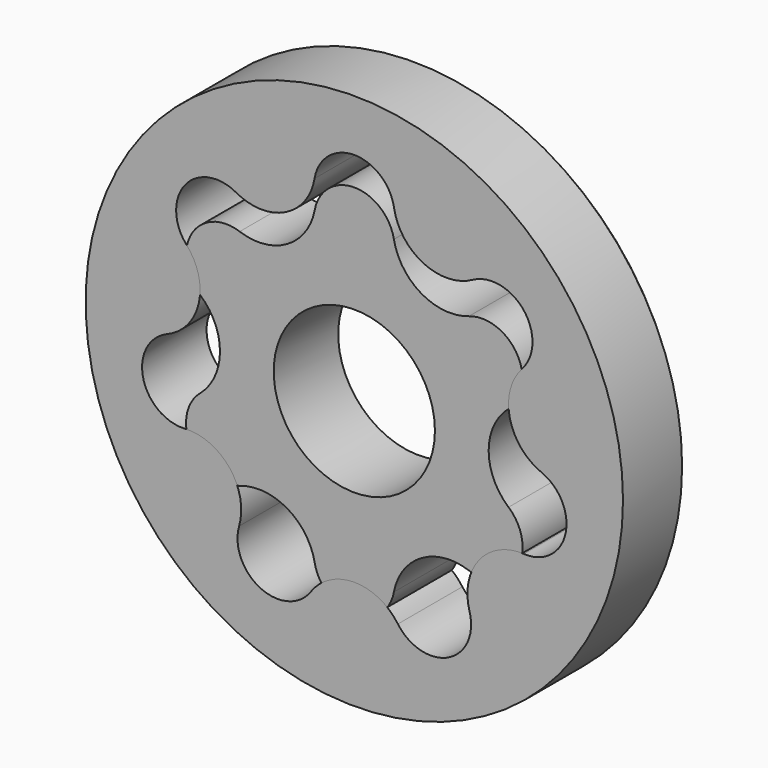
from build123d import *

# Parameters (mm, degrees)
F0_R     = 3
F1_DEPTH = 3
F2_R     = 10
F3_DEPTH = 3
F4_SIZE  = 0.25


with BuildPart() as f1:
    # F0 (on Front) → F1 (new body)
    with BuildSketch(Plane.XZ):
        with BuildLine():
            ThreePointArc((4.266359, 4.165347), (2.5, 4.330127), (1.474117, 5.777449))
            ThreePointArc((1.474117, 5.777449), (0, 7), (-1.474117, 5.777449))
            ThreePointArc((-1.474117, 5.777449), (-2.5, 4.330127), (-4.266359, 4.165347))
            ThreePointArc((-4.266359, 4.165347), (-6.062178, 3.5), (-5.740476, 1.612101))
            ThreePointArc((-5.740476, 1.612101), (-5, 0), (-5.740476, -1.612101))
            ThreePointArc((-5.740476, -1.612101), (-6.062178, -3.5), (-4.266359, -4.165347))
            ThreePointArc((-4.266359, -4.165347), (-2.5, -4.330127), (-1.474117, -5.777449))
            ThreePointArc((-1.474117, -5.777449), (0, -7), (1.474117, -5.777449))
            ThreePointArc((1.474117, -5.777449), (2.5, -4.330127), (4.266359, -4.165347))
            ThreePointArc((4.266359, -4.165347), (6.062178, -3.5), (5.740476, -1.612101))
            ThreePointArc((5.740476, -1.612101), (5, 0), (5.740476, 1.612101))
            ThreePointArc((5.740476, 1.612101), (6.062178, 3.5), (4.266359, 4.165347))
        make_face()
        Circle(F0_R, mode=Mode.SUBTRACT)
    extrude(amount=F1_DEPTH)


with BuildPart() as f3:
    # F2 (on Front) → F3 (new body)
    with BuildSketch(Plane.XZ):
        Circle(F2_R)
        with BuildLine():
            ThreePointArc((-1.479564, 6.810073), (0, 8.063316), (1.479564, 6.810073))
            ThreePointArc((1.479564, 6.810073), (2.575831, 5.348768), (4.401836, 5.402781))
            ThreePointArc((4.401836, 5.402781), (6.304154, 5.027395), (6.246823, 3.089241))
            ThreePointArc((6.246823, 3.089241), (5.787839, 1.321036), (6.968565, -0.072915))
            ThreePointArc((6.968565, -0.072915), (7.861152, -1.794257), (6.310097, -2.957852))
            ThreePointArc((6.310097, -2.957852), (4.641487, -3.701462), (4.287822, -5.493705))
            ThreePointArc((4.287822, -5.493705), (3.498542, -7.264797), (1.621739, -6.777623))
            ThreePointArc((1.621739, -6.777623), (0, -5.936684), (-1.621739, -6.777623))
            ThreePointArc((-1.621739, -6.777623), (-3.498542, -7.264797), (-4.287822, -5.493705))
            ThreePointArc((-4.287822, -5.493705), (-4.641487, -3.701462), (-6.310097, -2.957852))
            ThreePointArc((-6.310097, -2.957852), (-7.861152, -1.794257), (-6.968565, -0.072915))
            ThreePointArc((-6.968565, -0.072915), (-5.787839, 1.321036), (-6.246823, 3.089241))
            ThreePointArc((-6.246823, 3.089241), (-6.304154, 5.027395), (-4.401836, 5.402781))
            ThreePointArc((-4.401836, 5.402781), (-2.575831, 5.348768), (-1.479564, 6.810073))
        make_face(mode=Mode.SUBTRACT)
    extrude(amount=F3_DEPTH)

    # F4
    f4_edges = [f3.edges().sort_by_distance(p)[0] for p in [
        (-10, 0, 0),
    ]]
    chamfer(f4_edges, length=F4_SIZE)


solid = Compound([f1.part, f3.part])
